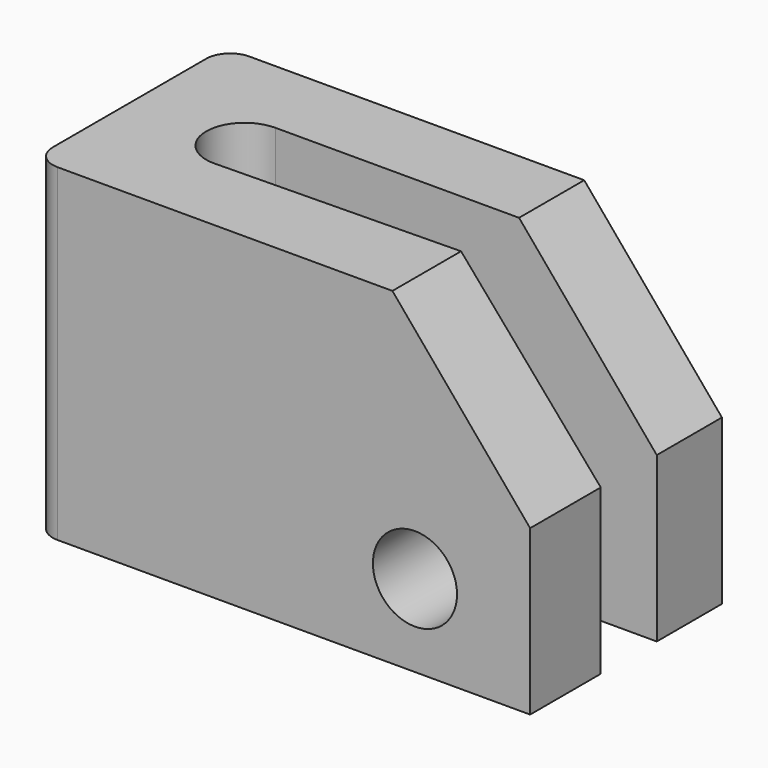
from build123d import *

# Parameters (mm, degrees)
F0_W     = 103.557102
F0_H     = 68.452998
F1_DEPTH = 50
F2_R     = 8.015523
F3_DEPTH = 70
F5_DEPTH = 75
F7_DEPTH = 60
F8_R     = 8.775405
F9_DEPTH = 75
F10_R    = 5


with BuildPart() as f1:
    # F0 (on Front) → F1 (new body)
    with BuildSketch(Plane.XZ):
        Rectangle(F0_W, F0_H)
    extrude(amount=-F1_DEPTH)

    # F2 (on face) → F3 (cut)
    with BuildSketch(Plane.XY.offset(34.226499)):
        with Locations((-27.760793, 25)):
            Circle(F2_R)
        with Locations((-27.760793, 25)):
            Circle(F2_R)
    extrude(amount=-F3_DEPTH, mode=Mode.SUBTRACT)

    # F4 (on face) → F5 (cut)
    with BuildSketch(Plane.XY.offset(34.226499)):
        with BuildLine():
            Line((51.778551, 33.015523), (-27.760793, 33.015523))
            ThreePointArc((-27.760793, 33.015523), (-22.092962, 30.667831), (-19.74527, 25))
            ThreePointArc((-19.74527, 25), (-22.042391, 19.383196), (-27.617118, 16.985765))
            Line((-27.617118, 16.985765), (51.778551, 18.409128))
            Line((51.778551, 18.409128), (51.778551, 33.015523))
        make_face()
    extrude(amount=-F5_DEPTH, mode=Mode.SUBTRACT)

    # F6 (on face) → F7 (cut)
    with BuildSketch(Plane.XZ):
        Polygon((51.778551, 34.226499), (23.059108, 34.226499), (51.778551, 0), align=None)
    extrude(amount=-F7_DEPTH, mode=Mode.SUBTRACT)

    # F8 (on face) → F9 (cut)
    with BuildSketch(Plane.XZ):
        with Locations((27.760791, -17.11325)):
            Circle(F8_R)
    extrude(amount=-F9_DEPTH, mode=Mode.SUBTRACT)

    # F10
    f10_edges = [f1.edges().sort_by_distance(p)[0] for p in [
        (-51.778551, 0, 0),
        (-51.778551, 50, 0),
    ]]
    fillet(f10_edges, radius=F10_R)


solid = f1.part
